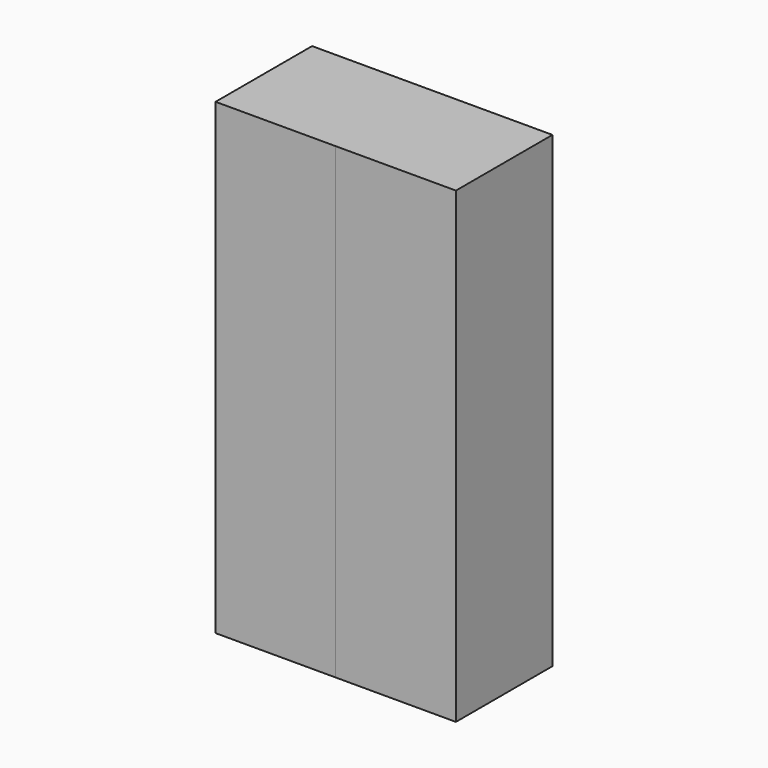
from build123d import *

# Parameters (mm, degrees)
F0_W     = 500
F0_H     = 2
F1_DEPTH = 2
F2_DEPTH = 1950
F3_W     = 1000
F3_H     = 502
F4_DEPTH = 2
F5_DEPTH = 1950
F6_DEPTH = 1950


with BuildPart() as f1:
    # F0 (on Top) → F1 (new body)
    with BuildSketch(Plane.XY):
        Polygon((500, -250), (500, 250), (-500, 250), (-500, -250), (0, -250), align=None)
        Polygon((-500, 250), (500, 250), (500, -250), (500, -252), (502, -252), (502, 252), (-502, 252), (-502, -252), (-500, -252), (-500, -250), align=None)
        with Locations((250, -251)):
            Rectangle(F0_W, F0_H)
        with Locations((-250, -251)):
            Rectangle(F0_W, F0_H)
    extrude(amount=-F1_DEPTH)

    # F0 (on Top) → F2 (join)
    with BuildSketch(Plane.XY):
        Polygon((-500, 250), (500, 250), (500, -250), (500, -252), (502, -252), (502, 252), (-502, 252), (-502, -252), (-500, -252), (-500, -250), align=None)
    extrude(amount=F2_DEPTH)

    # F3 (on face) → F4 (join)
    with BuildSketch(Plane.XY.offset(1950)):
        Polygon((-502, 252), (-502, -252), (-500, -252), (-500, 250), (500, 250), (500, -252), (502, -252), (502, 252), align=None)
        with Locations((0, -1)):
            Rectangle(F3_W, F3_H)
    extrude(amount=F4_DEPTH)


with BuildPart() as f5:
    # F0 (on Top) → F5 (new body, through all)
    with BuildSketch(Plane.XY):
        with Locations((-250, -251)):
            Rectangle(F0_W, F0_H)
    extrude(amount=F5_DEPTH)


with BuildPart() as f6:
    # F0 (on Top) → F6 (new body, through all)
    with BuildSketch(Plane.XY):
        with Locations((250, -251)):
            Rectangle(F0_W, F0_H)
    extrude(amount=F6_DEPTH)


solid = Compound([f1.part, f5.part, f6.part])
